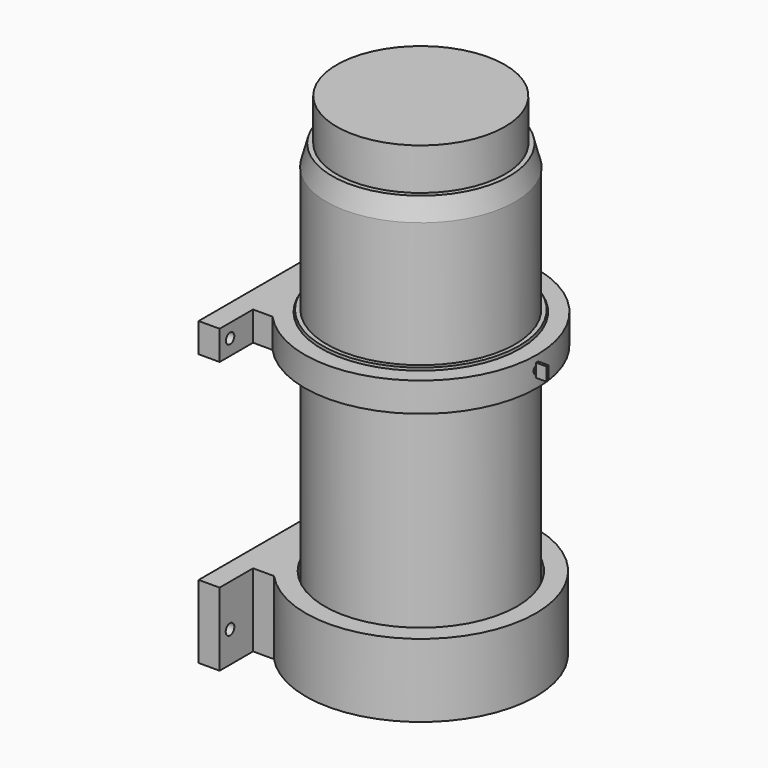
from build123d import *

# Parameters (mm, degrees)
F1_W      = 10
F1_H      = 115
F2_DEPTH  = 35
F0_R      = 55
F3_DEPTH  = 35
F5_W      = 10
F5_H      = 16
F6_DEPTH  = 35
F7_R      = 46
F8_DEPTH  = 30
F9_R      = 45
F10_DEPTH = 200
F12_R     = 47
F12_R_2   = 45
F13_DEPTH = 15
F14_R     = 55.5243387496
F14_R_2   = 47.5495855214
F15_DEPTH = 14
F16_W     = 2.7371235192
F16_H     = 3.1020753086
F16_W_2   = 3.740735352
F16_H_2   = 3.740735352
F17_DEPTH = 14
F18_R     = 45.1221463485
F19_DEPTH = 10
F19_TAPER = 15
F20_R     = 40.1828666556
F21_DEPTH = 20
F22_R     = 2.589803189
F22_R_2   = 2.9528303604
F22_R_3   = 2.4432144549
F22_R_4   = 2.5
F23_DEPTH = 25
F24_DEPTH = 15
F26_R     = 2
F27_DEPTH = 11
F28_R     = 1.8519150729
F29_DEPTH = 10
F30_W     = 1.2878538109
F30_H     = 6.3951611519
F31_DEPTH = 5


with BuildPart() as f2:
    # F1 (on Top) → F2 (new body)
    with BuildSketch(Plane.XY):
        with Locations((-55.2120134234, 0)):
            Rectangle(F1_W, F1_H)
    extrude(amount=F2_DEPTH)

    # F0 (on Top) → F3 (join)
    with BuildSketch(Plane.XY):
        Circle(F0_R)
    extrude(amount=F3_DEPTH)

    # F5 (on Top) → F6 (join)
    with BuildSketch(Plane.XY):
        with Locations((-45.2120134234, 29.5)):
            Rectangle(F5_W, F5_H)
        with Locations((-45.2120134234, -29.5)):
            Rectangle(F5_W, F5_H)
    extrude(amount=F6_DEPTH)

    # F7 (on face) → F8 (cut)
    with BuildSketch(Plane.XY.offset(35)):
        Circle(F7_R)
    extrude(amount=-F8_DEPTH, mode=Mode.SUBTRACT)


with BuildPart() as f10:
    # F9 (on face) → F10 (new body)
    with BuildSketch(Plane.XY.offset(5)):
        Circle(F9_R)
    extrude(amount=F10_DEPTH)


with BuildPart() as f13:
    # F12 (on offset) → F13 (new body)
    with BuildSketch(Plane.XY.offset(130)):
        Circle(F12_R)
        Circle(F12_R_2, mode=Mode.SUBTRACT)
    extrude(amount=F13_DEPTH)


with BuildPart() as f15:
    # F14 (on offset) → F15 (new body)
    with BuildSketch(Plane.XY.offset(130)):
        Circle(F14_R)
        Circle(F14_R_2, mode=Mode.SUBTRACT)
    extrude(amount=F15_DEPTH)

    # F16 (on offset) → F17 (join)
    with BuildSketch(Plane.XY.offset(130)):
        Polygon((-60.2025799453, 57.4897415936), (-60.2025799453, -57.5523227453), (-50.1614175737, -57.5523227453), (-50.1614175737, -37.5796668231), (-50.1614175737, -22.9816753417), (-50.1614175737, 23.2757031918), (-50.1614175737, 37.4175049365), (-50.1614175737, 57.4897415936), align=None)
        Polygon((-50.1614175737, -22.9816753417), (-50.1614175737, -37.5796668231), (-42.8624227643, -37.5796668231), (-42.8624227643, -34.4775915146), (-42.8624227643, -22.9816753417), align=None)
        with Locations((-41.4938610047, -36.0286291689)):
            Rectangle(F16_W, F16_H)
        Polygon((-43.8660345972, 37.4175049365), (-50.1614175737, 37.4175049365), (-50.1614175737, 23.2757031918), (-43.8660345972, 23.2757031918), (-43.8660345972, 33.6767695844), align=None)
        with Locations((-41.9956669211, 35.5471372604)):
            Rectangle(F16_W_2, F16_H_2)
    extrude(amount=F17_DEPTH)


with BuildPart() as f19:
    # F18 (on face) → F19 (new body)
    with BuildSketch(Plane.XY.offset(205)):
        Circle(F18_R)
    extrude(amount=F19_DEPTH, taper=F19_TAPER)


with BuildPart() as f21:
    # F20 (on face) → F21 (new body)
    with BuildSketch(Plane.XY.offset(215)):
        Circle(F20_R)
    extrude(amount=F21_DEPTH)


with BuildPart() as f23_tool:
    # F22 (on face) → F23 (new body)
    with BuildSketch(Plane(origin=(-60.2120134234, 0, 0), x_dir=(0, -1, 0), z_dir=(-1, 0, 0))):
        with Locations((51.278103143, 14.9101959541)):
            Circle(F22_R)
        with Locations((-51.5370927751, 15.9461162984)):
            Circle(F22_R_2)
        with Locations((-51.7960712314, 137.6668810844)):
            Circle(F22_R_3)
        with Locations((51.2781068683, 137.4078989029)):
            Circle(F22_R_4)
    extrude(amount=-F23_DEPTH)


with BuildPart() as f2_1:
    add(f2.part)

    # F23: cut by f23_tool
    add(f23_tool.part, mode=Mode.SUBTRACT)

    # F22 (on face) → F24 (cut)
    with BuildSketch(Plane(origin=(-60.2120134234, 0, 0), x_dir=(0, -1, 0), z_dir=(-1, 0, 0))):
        with Locations((51.278103143, 14.9101959541)):
            Circle(F22_R)
        with Locations((-51.5370927751, 15.9461162984)):
            Circle(F22_R_2)
        with Locations((-51.7960712314, 137.6668810844)):
            Circle(F22_R_3)
        with Locations((51.2781068683, 137.4078989029)):
            Circle(F22_R_4)
    extrude(amount=-F24_DEPTH, mode=Mode.SUBTRACT)


with BuildPart() as f15_1:
    add(f15.part)

    # F23: cut by f23_tool
    add(f23_tool.part, mode=Mode.SUBTRACT)


with BuildPart() as f27_tool:
    # F26 (on offset) → F27 (new body)
    with BuildSketch(Plane.YZ.offset(55.6)):
        with Locations((0, 137.8392875195)):
            Circle(F26_R)
    extrude(amount=-F27_DEPTH)


with BuildPart() as f10_1:
    add(f10.part)

    # F27: cut by f27_tool
    add(f27_tool.part, mode=Mode.SUBTRACT)


with BuildPart() as f13_1:
    add(f13.part)

    # F27: cut by f27_tool
    add(f27_tool.part, mode=Mode.SUBTRACT)


with BuildPart() as f15_2:
    add(f15_1.part)

    # F27: cut by f27_tool
    add(f27_tool.part, mode=Mode.SUBTRACT)


with BuildPart() as f29:
    # F28 (on offset) → F29 (new body)
    with BuildSketch(Plane.YZ.offset(55.6)):
        with Locations((0, 137.7980560064)):
            Circle(F28_R)
    extrude(amount=-F29_DEPTH)

    # F30 (on face) → F31 (join)
    with BuildSketch(Plane.YZ.offset(55.6)):
        with Locations((0, 137.7980560064)):
            Rectangle(F30_W, F30_H)
    extrude(amount=F31_DEPTH)


solid = Compound([f19.part, f21.part, f2_1.part, f10_1.part, f13_1.part, f15_2.part, f29.part])
